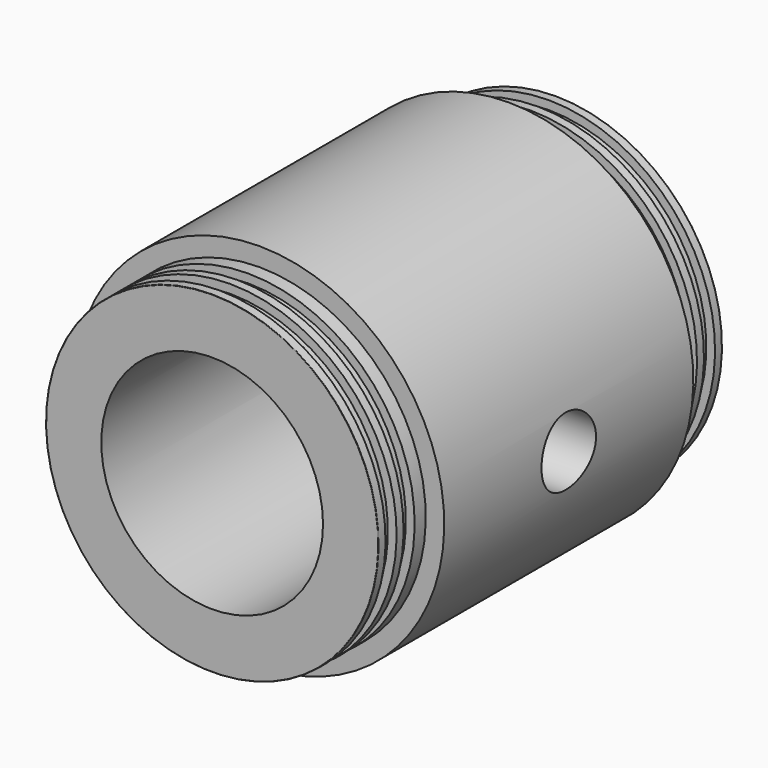
from build123d import *

# Parameters (mm, degrees)
F2_R      = 38.1
F3_DEPTH  = 147.6375
F4_R      = 0.127
F7_D      = 23.41626
F7_DEPTH  = 38.1
F7_START  = 1.0887055
F7_TIP    = 7.0349542395
F10_D     = 23.41626
F10_DEPTH = 38.1
F10_START = 1.0887055
F10_TIP   = 7.0349542395


with BuildPart() as f1:
    # F0 (on Right) → F1 (revolve)
    with BuildSketch(Plane.YZ):
        Polygon((0, 57.15), (0, 0), (147.6375, 0), (147.6375, 57.15), (144.5895, 57.15), (144.5895, 54.1528), (139.8397, 54.1528), (139.8397, 57.15), (136.8425, 57.15), (136.8425, 54.1528), (132.0927, 54.1528), (132.0927, 57.15), (127.3175, 57.15), (127.3175, 63.5), (20.32, 63.5), (20.32, 57.15), (15.5448, 57.15), (15.5448, 54.1528), (10.795, 54.1528), (10.795, 57.15), (7.7978, 57.15), (7.7978, 54.1528), (3.048, 54.1528), (3.048, 57.15), align=None)
    revolve(axis=Axis((0, 73.81875, 0), (0, 1, 0)))

    # F2 (on face) → F3 (cut, through all)
    with BuildSketch(Plane.XZ):
        Circle(F2_R)
    extrude(amount=-F3_DEPTH, mode=Mode.SUBTRACT)

    # F4
    f4_edges = [f1.edges().sort_by_distance(p)[0] for p in [
        (0, 0, -57.15),
        (0, 147.6375, -57.15),
    ]]
    fillet(f4_edges, radius=F4_R)

    # F7
    # its depths count from where the whole tool has entered the part; down to there all is cleared
    with Locations(Plane.YZ.offset(63.5).offset(-F7_START)):
        with Locations((73.81875, 0)):
            Hole(F7_D / 2, depth=F7_DEPTH)
            with Locations((0, 0, -(F7_DEPTH + F7_TIP / 2))):  # 118° drill point
                Cone(0, F7_D / 2, F7_TIP, mode=Mode.SUBTRACT)

    # F10
    # its depths count from where the whole tool has entered the part; down to there all is cleared
    with Locations(Plane(origin=(-63.5, 0, 0), x_dir=(0, 1, 0), z_dir=(-1, 0, 0)).offset(-F10_START)):
        with Locations((73.81875, 0)):
            Hole(F10_D / 2, depth=F10_DEPTH)
            with Locations((0, 0, -(F10_DEPTH + F10_TIP / 2))):  # 118° drill point
                Cone(0, F10_D / 2, F10_TIP, mode=Mode.SUBTRACT)


solid = f1.part
